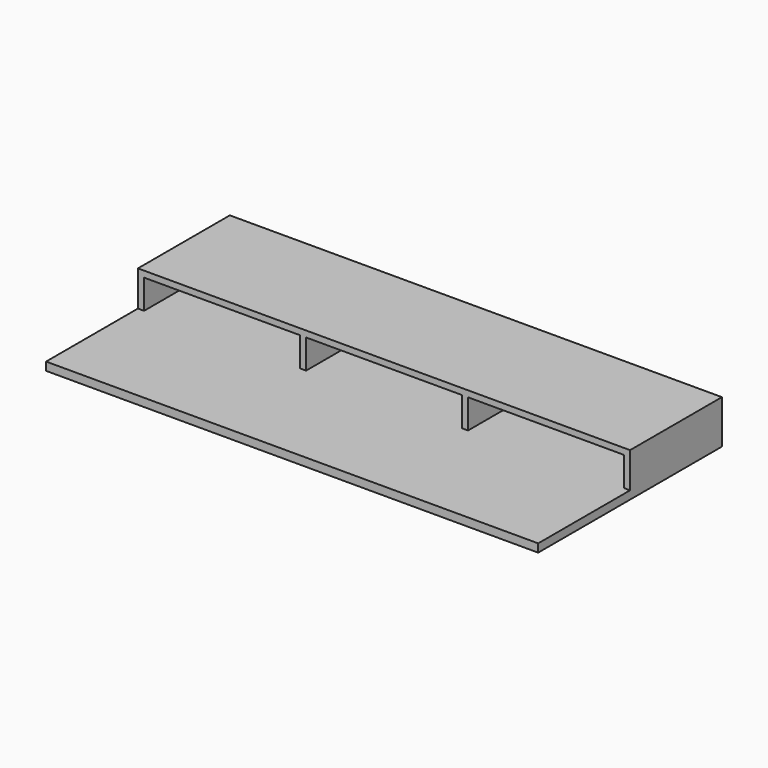
from build123d import *

# Parameters (mm, degrees)
F0_W     = 1524
F0_H     = 711.2
F1_DEPTH = 25.4
F2_W     = 19.05
F2_H     = 355.6
F3_DEPTH = 90.4875
F4_W     = 1524
F4_H     = 355.6
F5_DEPTH = 19.05


with BuildPart() as f1:
    # F0 (on Top) → F1 (new body)
    with BuildSketch(Plane.XY):
        with Locations((762, 355.6)):
            Rectangle(F0_W, F0_H)
    extrude(amount=F1_DEPTH)

    # F2 (on face) → F3 (join)
    with BuildSketch(Plane.XY.offset(25.4)):
        with Locations((9.525, 533.4)):
            Rectangle(F2_W, F2_H)
        with Locations((511.175, 533.4)):
            Rectangle(F2_W, F2_H)
        with Locations((1012.825, 533.4)):
            Rectangle(F2_W, F2_H)
        with Locations((1514.475, 533.4)):
            Rectangle(F2_W, F2_H)
    extrude(amount=F3_DEPTH)

    # F4 (on face) → F5 (join)
    with BuildSketch(Plane.XY.offset(115.8875)):
        with Locations((762, 533.4)):
            Rectangle(F4_W, F4_H)
    extrude(amount=F5_DEPTH)


solid = f1.part
